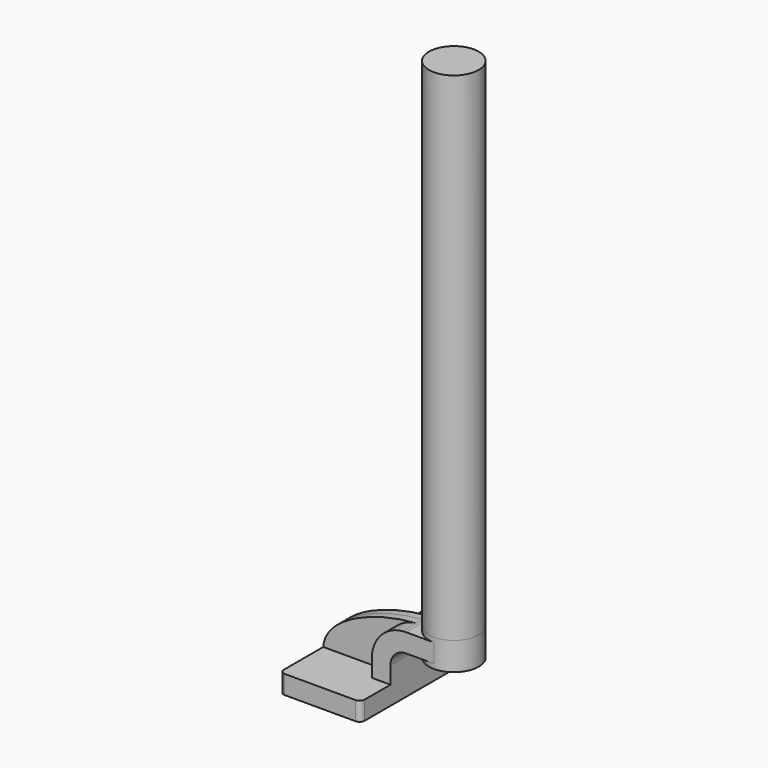
from build123d import *

# Parameters (mm, degrees)
F1_DEPTH = 63.5
F0_W     = 25.4
F0_H     = 19.05
F2_DEPTH = 25.4
F3_DEPTH = 7.9375
F5_R     = 5.08
F6_DEPTH = 508


with BuildPart() as f1:
    # F0 (on Front) → F1 (new body, symmetric)
    with BuildSketch(Plane.XZ):
        Polygon((22.225, 9.525), (-41.275, 9.525), (-41.275, -9.525), (41.275, -9.525), (41.275, 9.525), align=None)
    extrude(amount=F1_DEPTH, both=True)

    # F0 (on Front) → F2 (join, symmetric)
    with BuildSketch(Plane.XZ):
        with BuildLine():
            Line((22.225, 27.0002), (22.225, 9.525))
            Line((22.225, 9.525), (41.275, 9.525))
            Line((41.275, 9.525), (41.275, 27.0002))
            ThreePointArc((41.275, 27.0002), (45.9246798487, 38.2255201513), (57.15, 42.8752))
            Line((57.15, 42.8752), (60.325, 42.8752))
            Line((60.325, 42.8752), (60.325, 61.9252))
            Line((60.325, 61.9252), (57.15, 61.9252))
            add(Edge.make_bspline(
                [(53.8854342407, 61.7722898912), (54.9842067368, 61.8365871986), (56.0728453275, 61.8876096574), (57.15, 61.9252)],
                knots=[108.5245810491, 108.5245810491, 108.5245810491, 108.5245810491, 111.5045361635, 111.5045361635, 111.5045361635, 111.5045361635], degree=3))
            ThreePointArc((53.8854342407, 61.7722898912), (31.3258777096, 50.5133948686), (22.225, 27.0002))
        make_face()
        with Locations((73.025, 52.4002)):
            Rectangle(F0_W, F0_H)
    extrude(amount=F2_DEPTH, both=True)

    # F0 (on Front) → F3 (join, symmetric)
    with BuildSketch(Plane.XZ):
        with BuildLine():
            add(Edge.make_bspline(
                [(-41.275, 9.525), (-39.5856284224, 39.4828766469), (13.870125209, 59.4306981306), (53.8854342407, 61.7722898912)],
                knots=[0, 0, 0, 0, 108.5245810491, 108.5245810491, 108.5245810491, 108.5245810491], degree=3))
            Line((-41.275, 9.525), (22.225, 9.525))
            Line((22.225, 9.525), (22.225, 27.0002))
            ThreePointArc((22.225, 27.0002), (31.3258777096, 50.5133948686), (53.8854342407, 61.7722898912))
        make_face()
    extrude(amount=F3_DEPTH, both=True)

    # F0 (on Front) → F4 (revolve)
    with BuildSketch(Plane.XZ):
        Polygon((85.725, 66.675), (85.725, 61.9252), (85.725, 42.8752), (85.725, 38.1), (111.125, 38.1), (111.125, 66.675), align=None)
    revolve(axis=Axis((85.725, 0, 52.3875), (0, 0, 1)))

    # F5
    f5_edges = [f1.edges().sort_by_distance(p)[0] for p in [
        (41.275, -63.5, 0),
        (-41.275, -63.5, 0),
        (41.275, 63.5, 0),
        (-41.275, 63.5, 0),
    ]]
    fillet(f5_edges, radius=F5_R)

    # F6 (add): a face of the model
    f6_faces = [f1.faces().sort_by_distance(p)[0] for p in [
        (85.725, 0, 66.675),
    ]]
    extrude(f6_faces, amount=F6_DEPTH)


solid = f1.part
